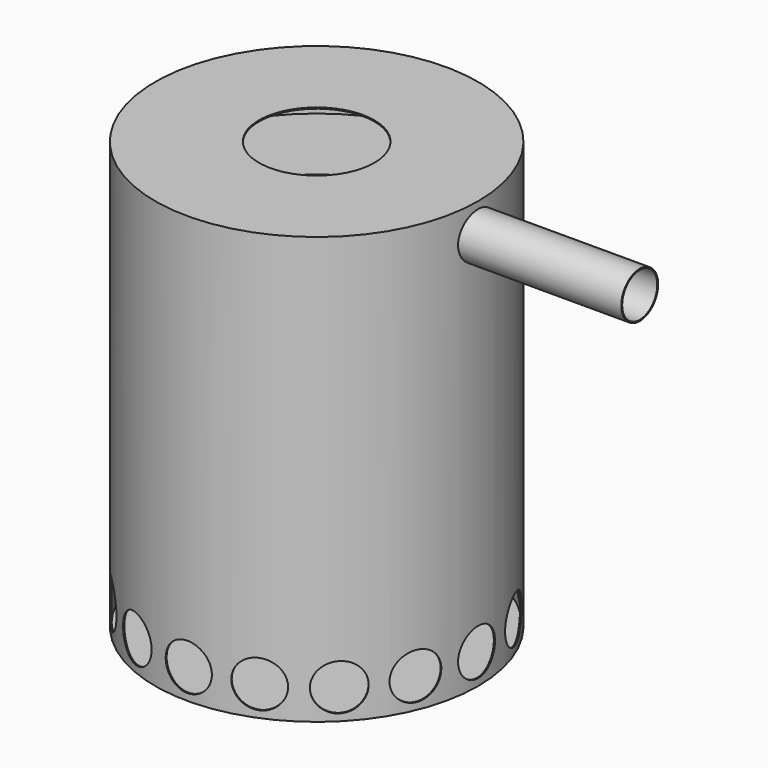
from build123d import *

# Parameters (mm, degrees)
F2_R      = 5
F3_DEPTH  = 1
F4_R      = 20
F5_DEPTH  = 280
F6_R      = 19
F7_DEPTH  = 280.001
F8_R      = 139
F9_DEPTH  = 50
F10_R     = 20
F11_DEPTH = 150
F12_COUNT = 16


with BuildPart() as f1:
    # F0 (on Front) → F1 (revolve)
    with BuildSketch(Plane.XZ):
        Polygon((0, 1), (0, 0), (140, 0), (140, 370), (50, 370), (50, 369), (139, 369), (139, 319), (139, 318), (139, 52), (139, 51), (139, 1), align=None)
        Polygon((0, 51), (139, 51), (139, 52), (114, 52), (113, 52), (0, 52), align=None)
        Polygon((113, 52), (114, 52), (114, 192.36397), (51, 267.444447), (51, 318), (50, 318), (50, 267.080476), (113, 192), align=None)
        Polygon((51, 318), (139, 318), (139, 319), (50, 319), (50, 318), align=None)
    revolve(axis=Axis((0, 0, 185), (0, 0, 1)))

    # F2 (on face) → F3 (cut)
    with BuildSketch(Plane.XY.offset(52)):
        Circle(F2_R)
        with Locations((20, 0)):
            Circle(F2_R)
        with Locations((10, 17.320508)):
            Circle(F2_R)
        with Locations((-10, 17.320508)):
            Circle(F2_R)
        with Locations((-20, 0)):
            Circle(F2_R)
        with Locations((40, 0)):
            Circle(F2_R)
        with Locations((34.641016, 20)):
            Circle(F2_R)
        with Locations((20, 34.641016)):
            Circle(F2_R)
        with Locations((0, 40)):
            Circle(F2_R)
        with Locations((-20, 34.641016)):
            Circle(F2_R)
        with Locations((-34.641016, 20)):
            Circle(F2_R)
        with Locations((-40, 0)):
            Circle(F2_R)
        with Locations((-34.641016, -20)):
            Circle(F2_R)
        with Locations((60, 0)):
            Circle(F2_R)
        with Locations((80, 0)):
            Circle(F2_R)
        with Locations((57.063391, 18.54102)):
            Circle(F2_R)
        with Locations((48.54102, 35.267115)):
            Circle(F2_R)
        with Locations((35.267115, 48.54102)):
            Circle(F2_R)
        with Locations((18.54102, 57.063391)):
            Circle(F2_R)
        with Locations((0, 60)):
            Circle(F2_R)
        with Locations((-18.54102, 57.063391)):
            Circle(F2_R)
        with Locations((-35.267115, 48.54102)):
            Circle(F2_R)
        with Locations((-48.54102, 35.267115)):
            Circle(F2_R)
        with Locations((-57.063391, 18.54102)):
            Circle(F2_R)
        with Locations((-60, 0)):
            Circle(F2_R)
        with Locations((-57.063391, -18.54102)):
            Circle(F2_R)
        with Locations((-48.54102, -35.267115)):
            Circle(F2_R)
        with Locations((-35.267115, -48.54102)):
            Circle(F2_R)
        with Locations((-18.54102, -57.063391)):
            Circle(F2_R)
        with Locations((0, -60)):
            Circle(F2_R)
        with Locations((18.54102, -57.063391)):
            Circle(F2_R)
        with Locations((35.267115, -48.54102)):
            Circle(F2_R)
        with Locations((48.54102, -35.267115)):
            Circle(F2_R)
        with Locations((57.063391, -18.54102)):
            Circle(F2_R)
        with Locations((-20, -34.641016)):
            Circle(F2_R)
        with Locations((0, -40)):
            Circle(F2_R)
        with Locations((20, -34.641016)):
            Circle(F2_R)
        with Locations((34.641016, -20)):
            Circle(F2_R)
        with Locations((77.994233, 17.801675)):
            Circle(F2_R)
        with Locations((72.077509, 34.710699)):
            Circle(F2_R)
        with Locations((62.546519, 49.879184)):
            Circle(F2_R)
        with Locations((49.879184, 62.546519)):
            Circle(F2_R)
        with Locations((34.710699, 72.077509)):
            Circle(F2_R)
        with Locations((17.801675, 77.994233)):
            Circle(F2_R)
        with Locations((0, 80)):
            Circle(F2_R)
        with Locations((-17.801675, 77.994233)):
            Circle(F2_R)
        with Locations((-34.710699, 72.077509)):
            Circle(F2_R)
        with Locations((-49.879184, 62.546519)):
            Circle(F2_R)
        with Locations((-62.546519, 49.879184)):
            Circle(F2_R)
        with Locations((-72.077509, 34.710699)):
            Circle(F2_R)
        with Locations((-77.994233, 17.801675)):
            Circle(F2_R)
        with Locations((-80, 0)):
            Circle(F2_R)
        with Locations((-77.994233, -17.801675)):
            Circle(F2_R)
        with Locations((-72.077509, -34.710699)):
            Circle(F2_R)
        with Locations((-62.546519, -49.879184)):
            Circle(F2_R)
        with Locations((-49.879184, -62.546519)):
            Circle(F2_R)
        with Locations((-34.710699, -72.077509)):
            Circle(F2_R)
        with Locations((-17.801675, -77.994233)):
            Circle(F2_R)
        with Locations((0, -80)):
            Circle(F2_R)
        with Locations((17.801675, -77.994233)):
            Circle(F2_R)
        with Locations((34.710699, -72.077509)):
            Circle(F2_R)
        with Locations((49.879184, -62.546519)):
            Circle(F2_R)
        with Locations((62.546519, -49.879184)):
            Circle(F2_R)
        with Locations((72.077509, -34.710699)):
            Circle(F2_R)
        with Locations((77.994233, -17.801675)):
            Circle(F2_R)
        with Locations((-10, -17.320508)):
            Circle(F2_R)
        with Locations((10, -17.320508)):
            Circle(F2_R)
    extrude(amount=-F3_DEPTH, mode=Mode.SUBTRACT)

    # F4 (on Right) → F5 (join)
    with BuildSketch(Plane.YZ):
        with Locations((0, 344)):
            Circle(F4_R)
    extrude(amount=F5_DEPTH)

    # F6 (on face) → F7 (cut, through all)
    with BuildSketch(Plane(origin=(0, 0, 0), x_dir=(0, -1, 0), z_dir=(-1, 0, 0))):
        with Locations((0, 344)):
            Circle(F6_R)
    extrude(amount=-F7_DEPTH, mode=Mode.SUBTRACT)

    # F8 (on face) → F9 (cut, through all)
    with BuildSketch(Plane.XY.offset(319)):
        Circle(F8_R)
    extrude(amount=F9_DEPTH, mode=Mode.SUBTRACT)


with BuildPart() as f11:
    # F10 (on Front) → F11 (new body)
    with BuildSketch(Plane.XZ):
        with Locations((0, 26)):
            Circle(F10_R)
    extrude(amount=-F11_DEPTH)


with BuildPart() as f12_1:
    # F12: instance of F11
    add(f11.part.rotate(Axis((0, 0, 185), (0, 0, 1)), 1 * 360 / F12_COUNT))


with BuildPart() as f12_2:
    # F12: instance of F11
    add(f11.part.rotate(Axis((0, 0, 185), (0, 0, 1)), 2 * 360 / F12_COUNT))


with BuildPart() as f12_3:
    # F12: instance of F11
    add(f11.part.rotate(Axis((0, 0, 185), (0, 0, 1)), 3 * 360 / F12_COUNT))


with BuildPart() as f12_4:
    # F12: instance of F11
    add(f11.part.rotate(Axis((0, 0, 185), (0, 0, 1)), 4 * 360 / F12_COUNT))


with BuildPart() as f12_5:
    # F12: instance of F11
    add(f11.part.rotate(Axis((0, 0, 185), (0, 0, 1)), 5 * 360 / F12_COUNT))


with BuildPart() as f12_6:
    # F12: instance of F11
    add(f11.part.rotate(Axis((0, 0, 185), (0, 0, 1)), 6 * 360 / F12_COUNT))


with BuildPart() as f12_7:
    # F12: instance of F11
    add(f11.part.rotate(Axis((0, 0, 185), (0, 0, 1)), 7 * 360 / F12_COUNT))


with BuildPart() as f12_8:
    # F12: instance of F11
    add(f11.part.rotate(Axis((0, 0, 185), (0, 0, 1)), 8 * 360 / F12_COUNT))


with BuildPart() as f12_9:
    # F12: instance of F11
    add(f11.part.rotate(Axis((0, 0, 185), (0, 0, 1)), 9 * 360 / F12_COUNT))


with BuildPart() as f12_10:
    # F12: instance of F11
    add(f11.part.rotate(Axis((0, 0, 185), (0, 0, 1)), 10 * 360 / F12_COUNT))


with BuildPart() as f12_11:
    # F12: instance of F11
    add(f11.part.rotate(Axis((0, 0, 185), (0, 0, 1)), 11 * 360 / F12_COUNT))


with BuildPart() as f12_12:
    # F12: instance of F11
    add(f11.part.rotate(Axis((0, 0, 185), (0, 0, 1)), 12 * 360 / F12_COUNT))


with BuildPart() as f12_13:
    # F12: instance of F11
    add(f11.part.rotate(Axis((0, 0, 185), (0, 0, 1)), 13 * 360 / F12_COUNT))


with BuildPart() as f12_14:
    # F12: instance of F11
    add(f11.part.rotate(Axis((0, 0, 185), (0, 0, 1)), 14 * 360 / F12_COUNT))


with BuildPart() as f12_15:
    # F12: instance of F11
    add(f11.part.rotate(Axis((0, 0, 185), (0, 0, 1)), 15 * 360 / F12_COUNT))


with BuildPart() as f1_1:
    add(f1.part)

    # F13: cut F11, F12_1, F12_2, F12_3, F12_4, F12_5, F12_6, F12_7, F12_8, F12_9, F12_10, F12_11, F12_12, F12_13, F12_14, F12_15
    add(f11.part, mode=Mode.SUBTRACT)
    add(f12_1.part, mode=Mode.SUBTRACT)
    add(f12_2.part, mode=Mode.SUBTRACT)
    add(f12_3.part, mode=Mode.SUBTRACT)
    add(f12_4.part, mode=Mode.SUBTRACT)
    add(f12_5.part, mode=Mode.SUBTRACT)
    add(f12_6.part, mode=Mode.SUBTRACT)
    add(f12_7.part, mode=Mode.SUBTRACT)
    add(f12_8.part, mode=Mode.SUBTRACT)
    add(f12_9.part, mode=Mode.SUBTRACT)
    add(f12_10.part, mode=Mode.SUBTRACT)
    add(f12_11.part, mode=Mode.SUBTRACT)
    add(f12_12.part, mode=Mode.SUBTRACT)
    add(f12_13.part, mode=Mode.SUBTRACT)
    add(f12_14.part, mode=Mode.SUBTRACT)
    add(f12_15.part, mode=Mode.SUBTRACT)


solid = f1_1.part
